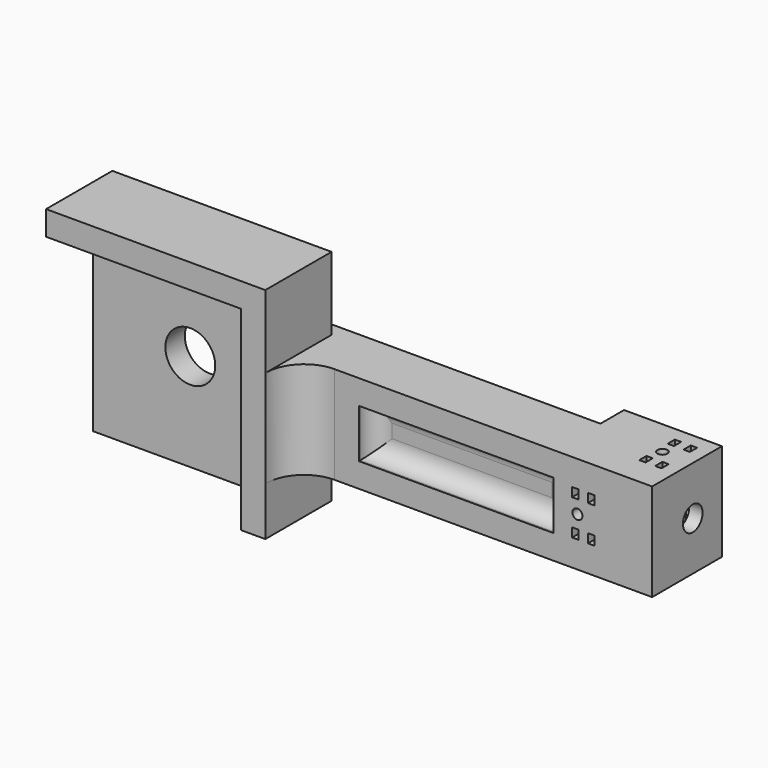
from build123d import *

# Parameters (mm, degrees)
SKETCH_W             = 25.4
SKETCH_H             = 3.175
PAD_DEPTH            = 25.4
SKETCH001_W          = 28.575
SKETCH001_H          = 12.7
PAD001_DEPTH         = 1.81
PAD001_DEPTH_BACK    = 5.715
POCKET_DEPTH         = 9.525
POCKET001_DEPTH      = 12.7
CHAMFER_SIZE         = 1.8034
SKETCH004_R          = 3.2512
POCKET002_DEPTH      = 5.716
PAD002_DEPTH         = 10.795
FILLET_R             = 4.953
SKETCH013_W          = 11.37
SKETCH013_H          = 12.7
SKETCH013_R          = 1.6002
PAD008_DEPTH         = 20.955
POCKET003_DEPTH      = 8.1961
SKETCH014_W          = 2.9
SKETCH014_H          = 10.2288
POCKET004_DEPTH      = 7.65
SKETCH015_W          = 2.9
SKETCH015_H          = 5.8
POCKET005_DEPTH      = 9.8644
SKETCH016_R          = 0.65
SKETCH016_W          = 0.825
SKETCH016_H          = 1.173477
POCKET006_DEPTH      = 6.5866
SKETCH017_R          = 0.65
SKETCH017_W          = 0.825
SKETCH017_H          = 1.173477
POCKET007_DEPTH      = 7.5866
POCKET007_DEPTH_BACK = 20.9904
SKETCH018_R          = 1.6002
SKETCH019_R          = 3.175
SKETCH020_W          = 25.4
SKETCH020_H          = 6.35
POCKET008_DEPTH      = 2.54
FILLET001_R          = 2.286


with BuildPart() as part:
    # Sketch → Pad (new body)
    with BuildSketch(Plane.XY):
        with Locations((-12.7, 1.5875)):
            Rectangle(SKETCH_W, SKETCH_H)
    extrude(amount=PAD_DEPTH)

    # Sketch001 (on Face1 of Pad) → Pad001 (join, two sides)
    with BuildSketch(Plane(origin=(0, 3.175, 0), x_dir=(-1, 0, 0), z_dir=(0, 1, 0))) as pad001_sk:
        with Locations((-14.2875, 12.7)):
            Rectangle(SKETCH001_W, SKETCH001_H)
    extrude(amount=PAD001_DEPTH)
    extrude(pad001_sk.sketch, amount=-PAD001_DEPTH_BACK)

    # Sketch002 (on Face13 of Pad001) → Pocket (cut)
    with BuildSketch(Plane.YZ.offset(28.575)):
        Polygon((9.150137, 19.05), (2.800137, 12.7), (9.150137, 6.35), align=None)
    extrude(amount=-POCKET_DEPTH, mode=Mode.SUBTRACT)

    # Sketch003 (on Face16 of Pocket) → Pocket001 (cut)
    with BuildSketch(Plane.YZ.offset(19.05)):
        with BuildLine():
            ThreePointArc((4.08, 14.732), (2.048, 12.7), (4.08, 10.668))
            Line((4.985, 10.668), (4.08, 10.668))
            Line((4.985, 14.732), (4.985, 10.668))
            Line((4.08, 14.732), (4.985, 14.732))
        make_face()
    extrude(amount=-POCKET001_DEPTH, mode=Mode.SUBTRACT)

    # Chamfer
    chamfer_edges = [part.edges().sort_by_distance(p)[0] for p in [
        (0, 4.985, 12.7),
    ]]
    chamfer(chamfer_edges, length=CHAMFER_SIZE)

    # Sketch004 (on Face4 of Chamfer) → Pocket002 (cut, through all)
    with BuildSketch(Plane(origin=(0, 3.175, 0), x_dir=(-1, 0, 0), z_dir=(0, 1, 0))):
        with Locations((12.7, 12.7)):
            Circle(SKETCH004_R)
    extrude(amount=-POCKET002_DEPTH, mode=Mode.SUBTRACT)

    # Sketch006 (on Face4 of Pocket002) → Pad002 (join)
    with BuildSketch(Plane(origin=(0, 3.175, 0), x_dir=(-1, 0, 0), z_dir=(0, 1, 0))):
        Polygon((0, 0), (-3.175, 0), (-3.175, 28.575), (25.4, 28.575), (25.4, 25.4), (0, 25.4), align=None)
    extrude(amount=-PAD002_DEPTH)

    # Fillet
    fillet_edges = [part.edges().sort_by_distance(p)[0] for p in [
        (3.175, -2.54, 12.7),
    ]]
    fillet(fillet_edges, radius=FILLET_R)

    # Sketch013 (on Face4 of Fillet) → Pad008 (join)
    with BuildSketch(Plane.YZ.offset(28.575)):
        with Locations((3.145, 12.7)):
            Rectangle(SKETCH013_W, SKETCH013_H)
        with Locations((4.08, 12.7)):
            Circle(SKETCH013_R, mode=Mode.SUBTRACT)
    extrude(amount=PAD008_DEPTH)

    # Pad008 Face13 → Pocket003 (cut)
    with BuildSketch(Plane(origin=(28.575, 6.929443, 12.7), x_dir=(0, 1, 0), z_dir=(-1, 0, 0))):
        with BuildLine():
            Line((-1.944443, -2.184863), (-1.944443, -6.35))
            Line((-1.944443, -6.35), (1.900557, -6.35))
            Line((1.900557, -6.35), (1.900557, 6.35))
            Line((1.900557, 6.35), (-1.944443, 6.35))
            Line((-1.944443, 6.35), (-1.944443, 2.184863))
            Line((-1.944443, 2.184863), (-2.556204, 1.573102))
            ThreePointArc((-2.556204, 1.573102), (-1.618614, 1.022594), (-1.249243, 0))
            ThreePointArc((-1.249243, 0), (-1.618614, -1.022594), (-2.556204, -1.573102))
            Line((-2.556204, -1.573102), (-1.944443, -2.184863))
        make_face()
    extrude(amount=-POCKET003_DEPTH, mode=Mode.SUBTRACT)

    # Sketch014 (on Face15 of Pocket003) → Pocket004 (cut)
    with BuildSketch(Plane(origin=(0, 8.83, 0), x_dir=(-1, 0, 0), z_dir=(0, 1, 0))):
        with Locations((-46.325, 12.7)):
            Rectangle(SKETCH014_W, SKETCH014_H)
    extrude(amount=-POCKET004_DEPTH, mode=Mode.SUBTRACT)

    # Sketch015 (on Face15 of Pocket004) → Pocket005 (cut)
    with BuildSketch(Plane(origin=(0, 8.83, 0), x_dir=(-1, 0, 0), z_dir=(0, 1, 0))):
        with Locations((-40.5108, 12.7)):
            Rectangle(SKETCH015_W, SKETCH015_H)
    extrude(amount=-POCKET005_DEPTH, mode=Mode.SUBTRACT)

    # Sketch016 (on Face53 of Pocket005) → Pocket006 (cut, through all)
    with BuildSketch(Plane(origin=(0, -1.0344, 0), x_dir=(-1, 0, 0), z_dir=(0, 1, 0))):
        with Locations((-39.79856, 12.7)):
            Circle(SKETCH016_R)
        with Locations((-41.58606, 15.013261)):
            Rectangle(SKETCH016_W, SKETCH016_H)
        with Locations((-41.58606, 10.386738)):
            Rectangle(SKETCH016_W, SKETCH016_H)
        with Locations((-39.51106, 15.013261)):
            Rectangle(SKETCH016_W, SKETCH016_H)
        with Locations((-39.51106, 10.386738)):
            Rectangle(SKETCH016_W, SKETCH016_H)
    extrude(amount=-POCKET006_DEPTH, mode=Mode.SUBTRACT)

    # Sketch017 (on Face52 of Pocket006) → Pocket007 (cut, two sides)
    with BuildSketch(Plane.XY.offset(7.5856)) as pocket007_sk:
        with Locations((45.57522, 4.07924)):
            Circle(SKETCH017_R)
        with Locations((45.2875, 6.392501)):
            Rectangle(SKETCH017_W, SKETCH017_H)
        with Locations((45.2875, 1.765978)):
            Rectangle(SKETCH017_W, SKETCH017_H)
        with Locations((47.3625, 6.392501)):
            Rectangle(SKETCH017_W, SKETCH017_H)
        with Locations((47.3625, 1.765978)):
            Rectangle(SKETCH017_W, SKETCH017_H)
    extrude(amount=-POCKET007_DEPTH, mode=Mode.SUBTRACT)
    extrude(pocket007_sk.sketch, amount=POCKET007_DEPTH_BACK, mode=Mode.SUBTRACT)

    # Sketch018 (on Face12 of Pocket007) → SubtractiveLoft section 0
    with BuildSketch(Plane(origin=(36.7711, 0, 0), x_dir=(0, -1, 0), z_dir=(-1, 0, 0))):
        with Locations((-4.07924, 12.7)):
            Circle(SKETCH018_R)
    # Sketch019 (on Face87 of Pocket007) → SubtractiveLoft section 1
    with BuildSketch(Plane.YZ.offset(28.575)):
        with Locations((4.07924, 12.7)):
            Circle(SKETCH019_R)
    loft(mode=Mode.SUBTRACT)

    # Sketch020 (on Face2 of SubtractiveLoft) → Pocket008 (cut)
    with BuildSketch(Plane.XZ.offset(2.54)):
        with Locations((24.003, 12.7)):
            Rectangle(SKETCH020_W, SKETCH020_H)
    extrude(amount=-POCKET008_DEPTH, mode=Mode.SUBTRACT)

    # Fillet001
    fillet001_edges = [part.edges().sort_by_distance(p)[0] for p in [
        (24.003, 0, 15.875),
        (36.703, 0, 12.7),
        (24.003, 0, 9.525),
        (11.303, 0, 12.7),
    ]]
    fillet(fillet001_edges, radius=FILLET001_R)


solid = part.part
